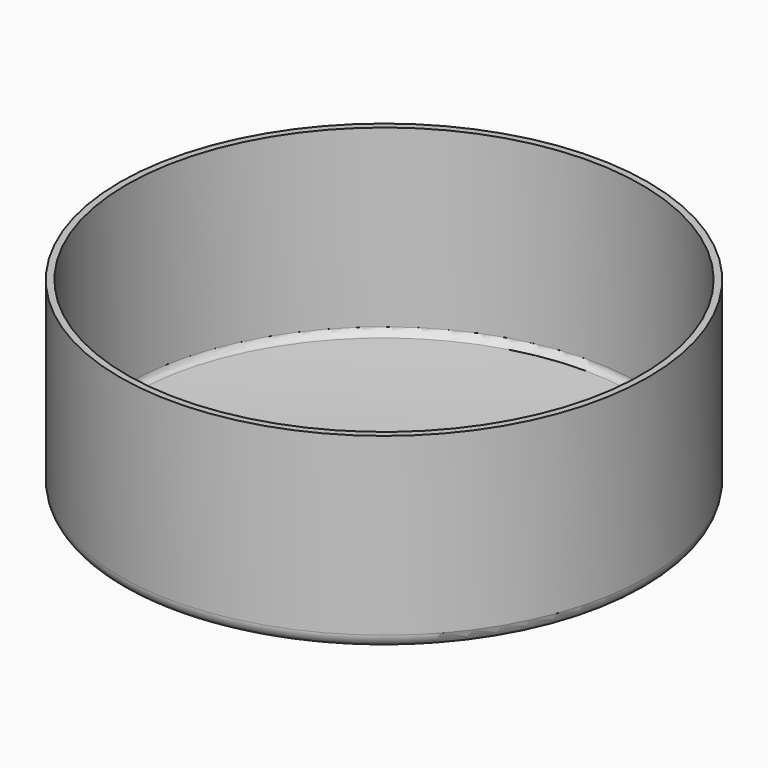
from build123d import *


with BuildPart() as f1:
    # F0 (on Front) → F1 (revolve)
    with BuildSketch(Plane.XZ):
        with BuildLine():
            Line((-48.7934, 4.840083), (-48.7934, 38.1))
            Line((-48.7934, 38.1), (-50.0634, 38.1))
            Line((-50.0634, 38.1), (-50.0634, 4.840083))
            ThreePointArc((-50.0634, 4.840083), (-49.404177, 3.132957), (-47.768692, 2.311955))
            ThreePointArc((-47.768692, 2.311955), (-23.912304, 0.578327), (0, 0))
            Line((0, 0), (0, 1.27))
            ThreePointArc((0, 1.27), (-23.850909, 1.846842), (-47.646046, 3.576019))
            ThreePointArc((-47.646046, 3.576019), (-48.463788, 3.98652), (-48.7934, 4.840083))
        make_face()
    revolve(axis=Axis((0, 0, 0.635), (0, 0, 1)))


solid = f1.part
